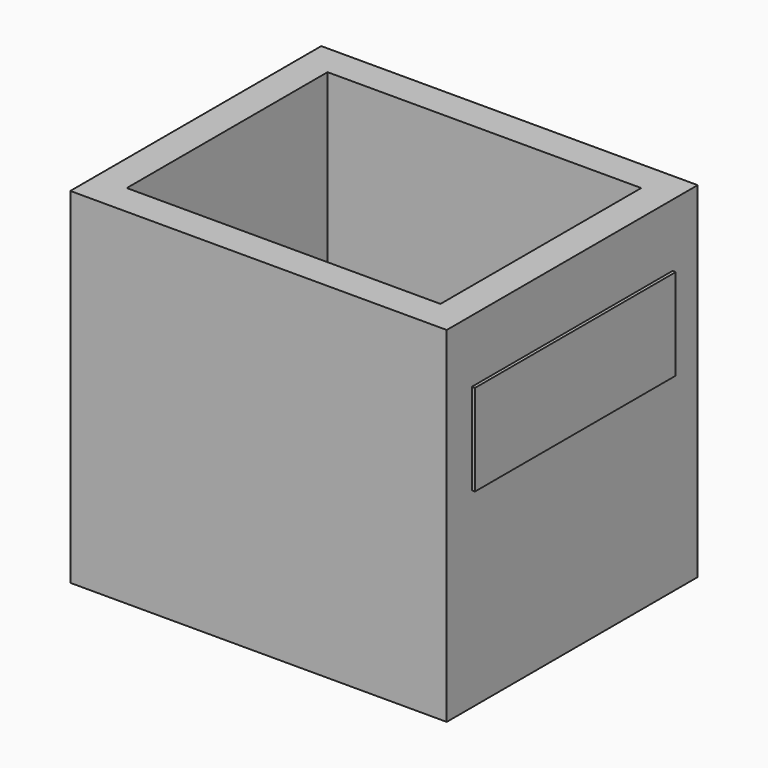
from build123d import *

# Parameters (mm, degrees)
F0_W     = 10
F0_H     = 8
F1_DEPTH = 10
F2_T     = 1
F3_W     = 8
F3_H     = 2.908741124
F4_DEPTH = 0.1


with BuildPart() as f1:
    # F0 (on Top) → F1 (new body)
    with BuildSketch(Plane.XY):
        with Locations((-44.9863001704, 1.6067679121)):
            Rectangle(F0_W, F0_H)
    extrude(amount=F1_DEPTH)

    # F2
    f2_openings = [f1.faces().sort_by_distance(p)[0] for p in [
        (-44.9863, 1.606768, 10),
    ]]
    offset(amount=F2_T, openings=f2_openings, kind=Kind.INTERSECTION)

    # F3 (on face) → F4 (join)
    with BuildSketch(Plane.YZ.offset(-38.9863001704)):
        with Locations((1.6067679121, 6.545629438)):
            Rectangle(F3_W, F3_H)
    extrude(amount=F4_DEPTH)


solid = f1.part
